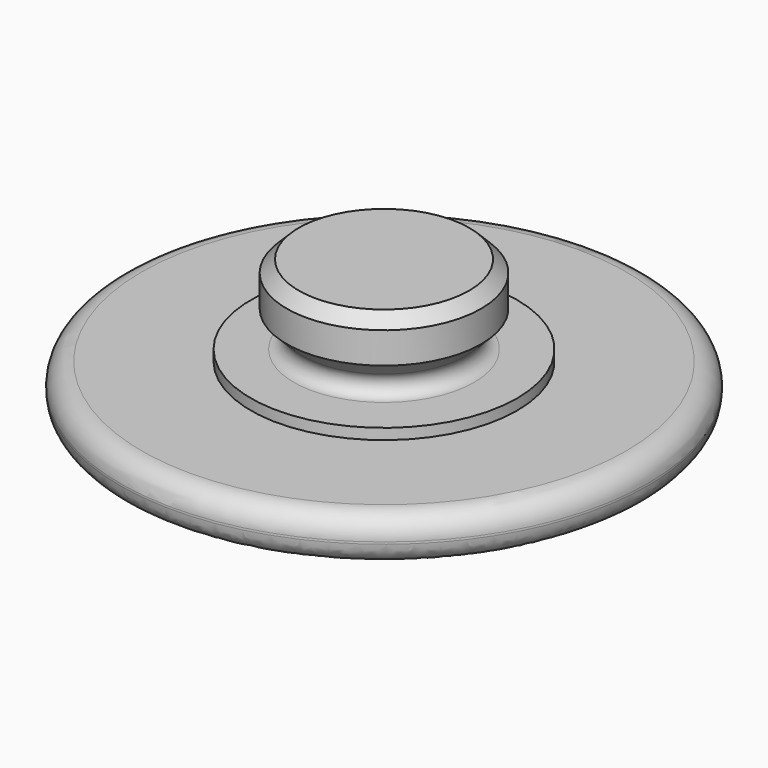
from build123d import *

# Parameters (mm, degrees)
F2_R    = 0.5
F3_R    = 0.9
F4_SIZE = 0.5


with BuildPart() as f1:
    # F0 (on Front) → F1 (revolve)
    with BuildSketch(Plane.XZ):
        with BuildLine():
            ThreePointArc((0, 0.7), (5.511125, 0.524823), (11, 0))
            Line((11, 0), (11, 2))
            Line((11, 2), (5.55, 2))
            Line((5.55, 2), (5.55, 2.45))
            Line((5.55, 2.45), (2.55, 2.45))
            Line((2.55, 2.45), (4.05, 3.95))
            Line((4.05, 3.95), (4.05, 5.75))
            Line((4.05, 5.75), (0, 5.75))
            Line((0, 5.75), (0, 0.7))
        make_face()
    revolve(axis=Axis((0, 0, 3.225), (0, 0, -1)))

    # F2
    f2_edges = [f1.edges().sort_by_distance(p)[0] for p in [
        (-2.55, 0, 2.45),
    ]]
    fillet(f2_edges, radius=F2_R)

    # F3
    f3_edges = [f1.edges().sort_by_distance(p)[0] for p in [
        (-11, 0, 0),
        (-11, 0, 2),
    ]]
    fillet(f3_edges, radius=F3_R)

    # F4
    f4_edges = [f1.edges().sort_by_distance(p)[0] for p in [
        (-4.05, 0, 5.75),
    ]]
    chamfer(f4_edges, length=F4_SIZE)


solid = f1.part
